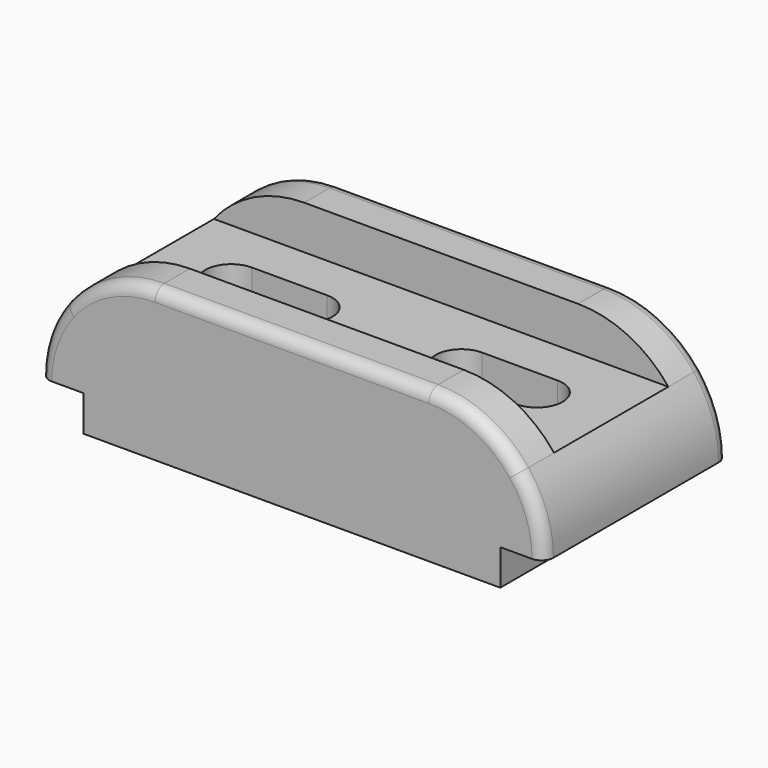
from build123d import *

# Parameters (mm, degrees)
F1_DEPTH = 29
F2_DEPTH = 18
F4_DEPTH = 38.001
F5_R     = 3


with BuildPart() as f1:
    # F0 (on Front) → F1 (new body, symmetric)
    with BuildSketch(Plane.XZ):
        with BuildLine():
            Line((-52.5, 9), (-52.5, 0))
            Line((-52.5, 0), (52.5, 0))
            Line((52.5, 0), (52.5, 9))
            Line((52.5, 9), (63.5, 9))
            ThreePointArc((63.5, 9), (61.8897, 18.529129), (57.237634, 27))
            Line((57.237634, 27), (-57.237634, 27))
            ThreePointArc((-57.237634, 27), (-61.8897, 18.529129), (-63.5, 9))
            Line((-63.5, 9), (-52.5, 9))
        make_face()
        with BuildLine():
            ThreePointArc((-34.5, 38), (-47.129331, 35.105555), (-57.237634, 27))
            Line((-57.237634, 27), (57.237634, 27))
            ThreePointArc((57.237634, 27), (47.129331, 35.105555), (34.5, 38))
            Line((34.5, 38), (-34.5, 38))
        make_face()
    extrude(amount=F1_DEPTH, both=True)

    # F0 (on Front) → F2 (cut, symmetric)
    with BuildSketch(Plane.XZ):
        with BuildLine():
            ThreePointArc((-34.5, 38), (-47.129331, 35.105555), (-57.237634, 27))
            Line((-57.237634, 27), (57.237634, 27))
            ThreePointArc((57.237634, 27), (47.129331, 35.105555), (34.5, 38))
            Line((34.5, 38), (-34.5, 38))
        make_face()
    extrude(amount=F2_DEPTH, both=True, mode=Mode.SUBTRACT)

    # F3 (on face) → F4 (cut, through all)
    with BuildSketch(Plane(origin=(0, 0, 0), x_dir=(1, 0, 0), z_dir=(0, 0, -1))):
        with BuildLine():
            Line((-19.5, 6.5), (-38.5, 6.5))
            ThreePointArc((-38.5, 6.5), (-45, 0), (-38.5, -6.5))
            Line((-38.5, -6.5), (-19.5, -6.5))
            ThreePointArc((-19.5, -6.5), (-13, 0), (-19.5, 6.5))
        make_face()
        with BuildLine():
            Line((38.5, 6.5), (19.5, 6.5))
            ThreePointArc((19.5, 6.5), (13, 0), (19.5, -6.5))
            Line((19.5, -6.5), (38.5, -6.5))
            ThreePointArc((38.5, -6.5), (45, 0), (38.5, 6.5))
        make_face()
    extrude(amount=-F4_DEPTH, mode=Mode.SUBTRACT)

    # F5
    f5_edges = [f1.edges().sort_by_distance(p)[0] for p in [
        (0, -29, 38),
        (-55.006097, -29, 29.506097),
        (55.006097, 29, 29.506097),
        (-55.006097, 29, 29.506097),
    ]]
    fillet(f5_edges, radius=F5_R)


solid = f1.part
